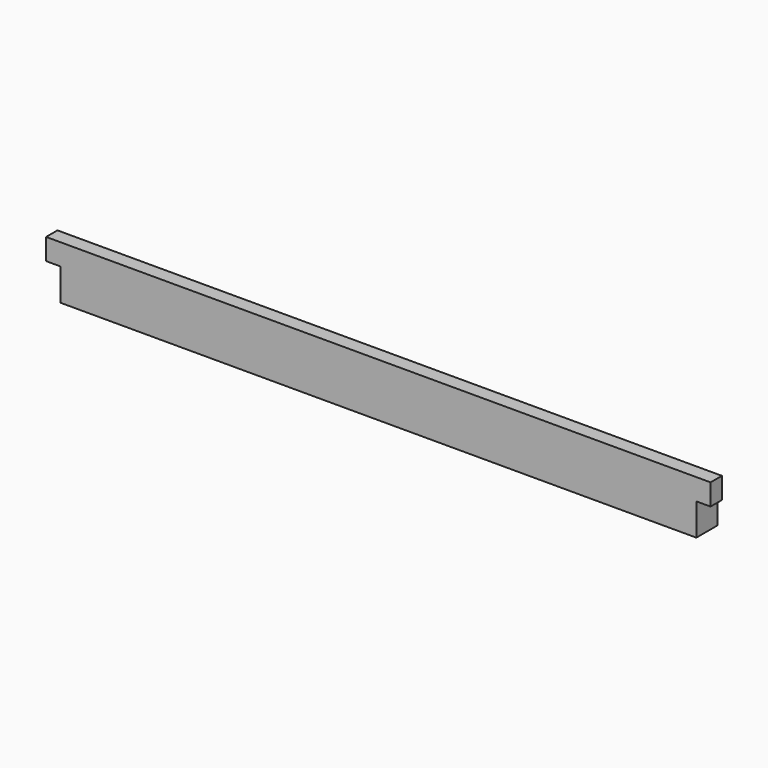
from build123d import *

# Parameters (mm, degrees)
F3_DEPTH = 895
F4_R     = 6
F5_DEPTH = 50
F6_W     = 76
F6_H     = 90
F7_DEPTH = 5
F8_W     = 40
F8_H     = 60
F9_DEPTH = 935


with BuildPart() as f3:
    # F2 (on Right) → F3 (new body, symmetric)
    with BuildSketch(Plane.YZ):
        Polygon((-40, 75), (-40, -75), (40, -75), (40, 15), (0, 15), (0, 75), align=None)
    extrude(amount=F3_DEPTH, both=True)

    # F4 (on face) → F5 (cut)
    with BuildSketch(Plane(origin=(0, 40, 0), x_dir=(-1, 0, 0), z_dir=(0, 1, 0))):
        with Locations((-865, -45)):
            Circle(F4_R)
        with Locations((-845, -5)):
            Circle(F4_R)
        with Locations((845, -5)):
            Circle(F4_R)
        with Locations((865, -45)):
            Circle(F4_R)
    extrude(amount=-F5_DEPTH, mode=Mode.SUBTRACT)

    # F6 (on face) → F7 (cut)
    with BuildSketch(Plane(origin=(0, 40, 0), x_dir=(-1, 0, 0), z_dir=(0, 1, 0))):
        with Locations((-857, -30)):
            Rectangle(F6_W, F6_H)
        with Locations((857, -30)):
            Rectangle(F6_W, F6_H)
    extrude(amount=-F7_DEPTH, mode=Mode.SUBTRACT)

    # F8 (on Right) → F9 (join, symmetric)
    with BuildSketch(Plane.YZ):
        with Locations((-20, 45)):
            Rectangle(F8_W, F8_H)
    extrude(amount=F9_DEPTH, both=True)


solid = f3.part
